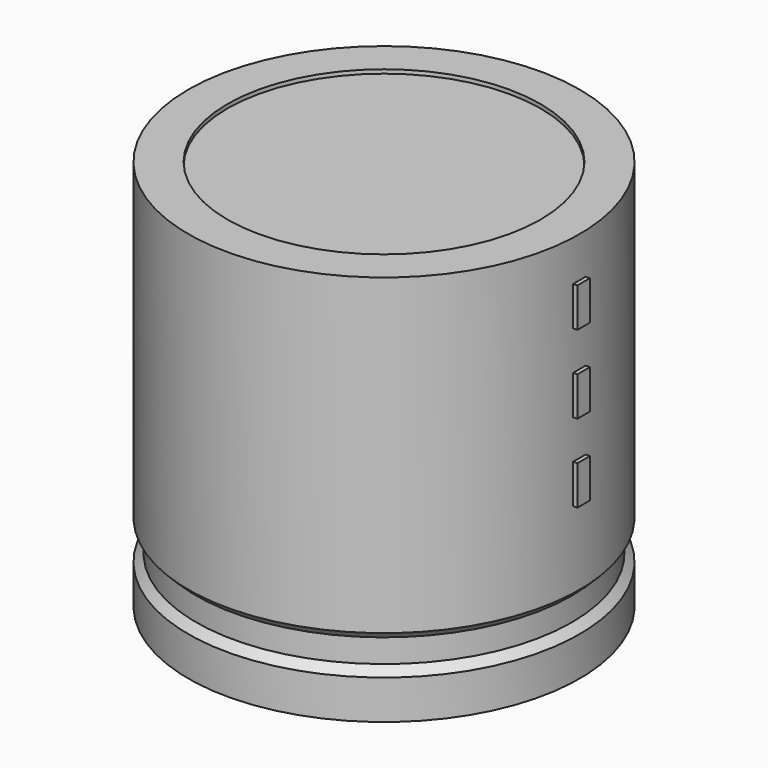
from build123d import *

# Parameters (mm, degrees)
SKETCH002_W  = 11.04
SKETCH002_H  = 23.52
SKETCH003_R  = 0.85
PAD_DEPTH    = 5.4
SKETCH004_W  = 0.96
SKETCH004_H  = 2.4
PAD001_DEPTH = 12.24


with BuildPart() as revolution:
    # Sketch → Revolution (revolve)
    with BuildSketch(Plane.XZ):
        Polygon((-7, 0.1), (-7, 2.5), (-6.52, 2.98), (-6.52, 4.42), (-7, 4.9), (-7, 24.1), (-4.6, 24.1), (-4.6, 0.1), align=None)
    revolve(axis=Axis((5, 0, 7.548619), (0, 0, -1)))


with BuildPart() as revolution001:
    # Sketch002 → Revolution001 (revolve)
    with BuildSketch(Plane.XZ):
        with Locations((-0.52, 12.1)):
            Rectangle(SKETCH002_W, SKETCH002_H)
    revolve(axis=Axis((5, 0, 4.680116), (0, 0, -1)))


with BuildPart() as pad:
    # Sketch003 → Pad (new body)
    with BuildSketch(Plane.XY.offset(2.4)):
        Circle(SKETCH003_R)
        with Locations((10, 0)):
            Circle(SKETCH003_R)
    extrude(amount=-PAD_DEPTH)


with BuildPart() as pad001:
    # Sketch004 → Pad001 (new body)
    with BuildSketch(Plane.YZ.offset(5)):
        with Locations((0, 10.8)):
            Rectangle(SKETCH004_W, SKETCH004_H)
        with Locations((0, 15.6)):
            Rectangle(SKETCH004_W, SKETCH004_H)
        with Locations((0, 20.4)):
            Rectangle(SKETCH004_W, SKETCH004_H)
    extrude(amount=PAD001_DEPTH)


solid = Compound([revolution.part, revolution001.part, pad.part, pad001.part])
